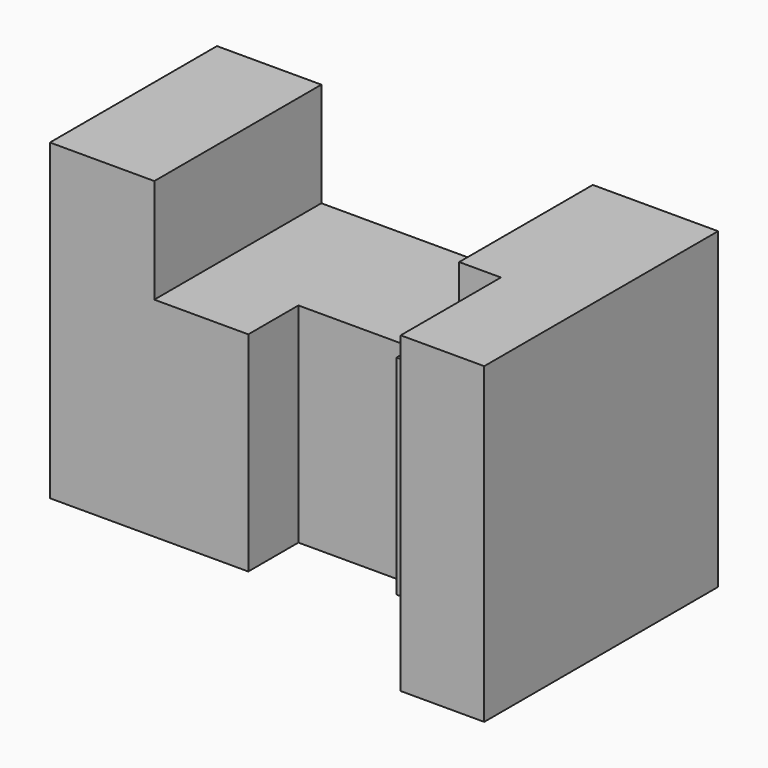
from build123d import *

# Parameters (mm, degrees)
F0_W     = 110
F0_H     = 70
F1_DEPTH = 75
F3_DEPTH = 75.001
F4_W     = 65
F4_H     = 50
F5_DEPTH = 25
F6_W     = 10
F6_H     = 30
F7_DEPTH = 75.001
F8_W     = 70
F8_H     = 75
F9_DEPTH = 10


with BuildPart() as f1:
    # F0 (on Top) → F1 (new body)
    with BuildSketch(Plane.XY):
        with Locations((55, 35)):
            Rectangle(F0_W, F0_H)
    extrude(amount=F1_DEPTH)

    # F2 (on face) → F3 (cut, through all)
    with BuildSketch(Plane.XY.offset(75)):
        Polygon((0, 0), (90, 0), (90, 30), (75, 30), (75, 35), (47.5, 35), (47.5, 20), (0, 20), align=None)
    extrude(amount=-F3_DEPTH, mode=Mode.SUBTRACT)

    # F4 (on face) → F5 (cut)
    with BuildSketch(Plane.XY.offset(75)):
        with Locations((57.5, 45)):
            Rectangle(F4_W, F4_H)
    extrude(amount=-F5_DEPTH, mode=Mode.SUBTRACT)

    # F6 (on face) → F7 (cut, through all)
    with BuildSketch(Plane.XY.offset(75)):
        with Locations((95, 15)):
            Rectangle(F6_W, F6_H)
    extrude(amount=-F7_DEPTH, mode=Mode.SUBTRACT)

    # F8 (on face) → F9 (join)
    with BuildSketch(Plane.YZ.offset(110)):
        with Locations((35, 37.5)):
            Rectangle(F8_W, F8_H)
    extrude(amount=F9_DEPTH)


solid = f1.part
